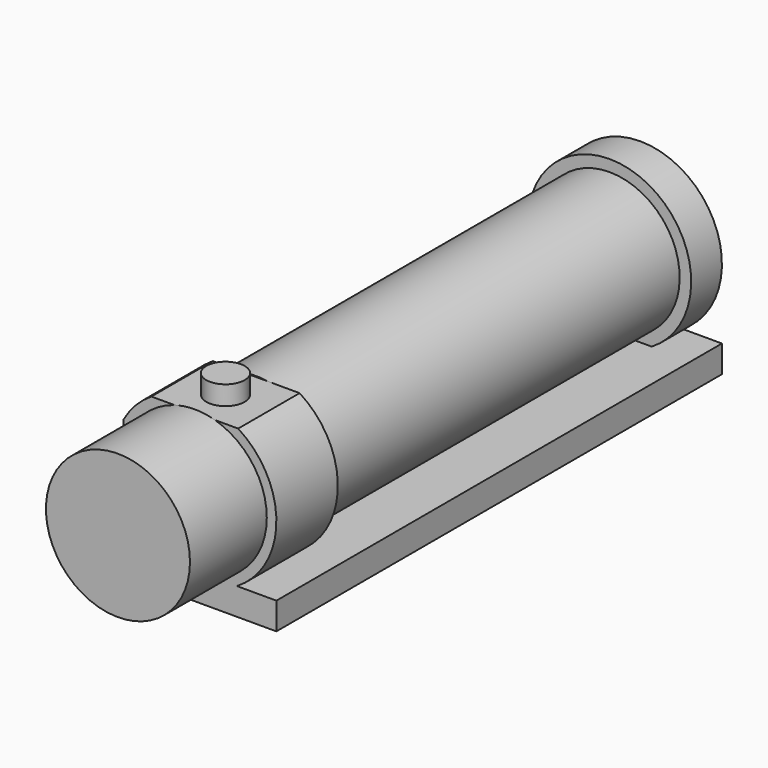
from build123d import *

# Parameters (mm, degrees)
F0_R           = 36.5
F1_DEPTH       = 270
F4_DEPTH       = 30
F4_DEPTH_BACK  = 10
F7_DEPTH       = 10
F7_DEPTH_BACK  = 10
F9_DEPTH       = 230
F10_R          = 37.5
F11_DEPTH      = 50
F13_W          = 135.54436
F13_H          = 40
F14_DEPTH      = 10
F16_W          = 40
F16_H          = 117.55117
F17_DEPTH      = 15
F18_R          = 10
F19_DEPTH      = 10
F20_R          = 10
F21_DEPTH      = 10
F22_W          = 85
F22_H          = 290
F23_DEPTH      = 12
F23_DEPTH_BACK = 2.1


with BuildPart() as f1:
    # F0 (on Front) → F1 (new body)
    with BuildSketch(Plane.XZ):
        Circle(F0_R)
    extrude(amount=F1_DEPTH)

    # F3 (on offset) → F4 (join, two sides)
    with BuildSketch(Plane.XZ.offset(260)) as f4_sk:
        with BuildLine():
            Line((42.5, -36.5), (21.771541, -36.5))
            ThreePointArc((21.771541, -36.5), (0, 42.5), (-21.771541, -36.5))
            Line((-21.771541, -36.5), (-42.5, -36.5))
            Line((-42.5, -36.5), (-42.5, -38.5))
            Line((-42.5, -38.5), (42.5, -38.5))
            Line((42.5, -38.5), (42.5, -36.5))
        make_face()
    extrude(amount=F4_DEPTH)
    extrude(f4_sk.sketch, amount=-F4_DEPTH_BACK)

    # F6 (on offset) → F7 (join, two sides)
    with BuildSketch(Plane.XZ.offset(10)) as f7_sk:
        with BuildLine():
            Line((42.5, -36.5), (21.771541, -36.5))
            ThreePointArc((21.771541, -36.5), (0, 42.5), (-21.771541, -36.5))
            Line((-21.771541, -36.5), (-42.5, -36.5))
            Line((-42.5, -36.5), (-42.5, -38.5))
            Line((-42.5, -38.5), (42.5, -38.5))
            Line((42.5, -38.5), (42.5, -36.5))
        make_face()
    extrude(amount=F7_DEPTH)
    extrude(f7_sk.sketch, amount=-F7_DEPTH_BACK)

    # F8 (on face) → F9 (join, through all)
    with BuildSketch(Plane(origin=(0, -250, 0), x_dir=(-1, 0, 0), z_dir=(0, 1, 0))):
        Polygon((-42.5, -36.5), (-42.5, -38.5), (42.5, -38.5), (42.5, -36.5), (21.771541, -36.5), (0, -37.5), (-21.771541, -36.5), align=None)
    extrude(amount=F9_DEPTH)

    # F10 (on face) → F11 (join)
    with BuildSketch(Plane.XZ.offset(290)):
        Circle(F10_R)
    extrude(amount=F11_DEPTH)

    # F13 (on offset) → F14 (cut)
    with BuildSketch(Plane.XY.offset(46)):
        with Locations((0, -270)):
            Rectangle(F13_W, F13_H)
    extrude(amount=-F14_DEPTH, mode=Mode.SUBTRACT)

    # F16 (on offset) → F17 (cut)
    with BuildSketch(Plane.YZ.offset(-52)):
        with Locations((-270, 0)):
            Rectangle(F16_W, F16_H)
    extrude(amount=F17_DEPTH, mode=Mode.SUBTRACT)

    # F18 (on face) → F19 (join)
    with BuildSketch(Plane.XY.offset(36)):
        with Locations((0, -270)):
            Circle(F18_R)
    extrude(amount=F19_DEPTH)

    # F20 (on face) → F21 (join)
    with BuildSketch(Plane(origin=(-37, 0, 0), x_dir=(0, -1, 0), z_dir=(-1, 0, 0))):
        with Locations((270, 0)):
            Circle(F20_R)
    extrude(amount=F21_DEPTH)

    # F22 (on face) → F23 (join, two sides)
    with BuildSketch(Plane(origin=(0, 0, -38.5), x_dir=(1, 0, 0), z_dir=(0, 0, -1))) as f23_sk:
        with Locations((0, 145)):
            Rectangle(F22_W, F22_H)
    extrude(amount=F23_DEPTH)
    extrude(f23_sk.sketch, amount=-F23_DEPTH_BACK)


solid = f1.part
